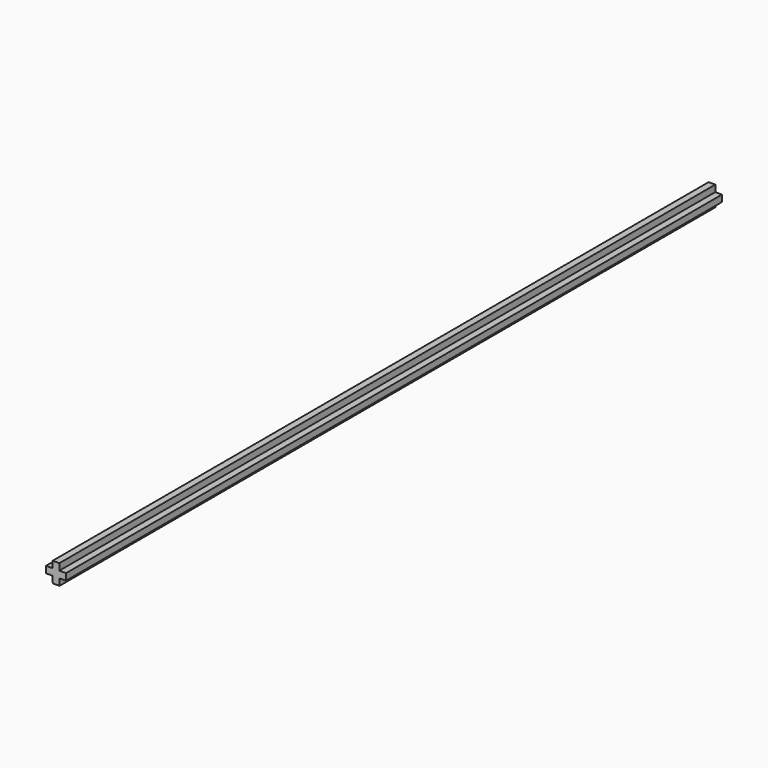
from build123d import *

# Parameters (mm, degrees)
F0_W     = 1.6002
F0_H     = 1.5875
F1_DEPTH = 196.85


with BuildPart() as f1:
    # F0 (on Front) → F1 (new body)
    with BuildSketch(Plane.XZ):
        Polygon((0, -1.6002), (0, 0), (-1.5875, 0), (-1.5721163362, -1.6002), align=None)
        with Locations((0.8001, 0.79375)):
            Rectangle(F0_W, F0_H)
        Polygon((1.6002, 0), (0, 0), (0, -1.6002), (1.6155836638, -1.6002), align=None)
        Polygon((3.2004, 0), (1.6002, 0), (1.6155836638, -1.6002), (3.2004, -1.5849642284), align=None)
        Polygon((1.6155836638, -1.6002), (0, -1.6002), (0.015382953, -3.200326059), (1.6309666168, -3.200326059), align=None)
    extrude(amount=F1_DEPTH)


solid = f1.part
